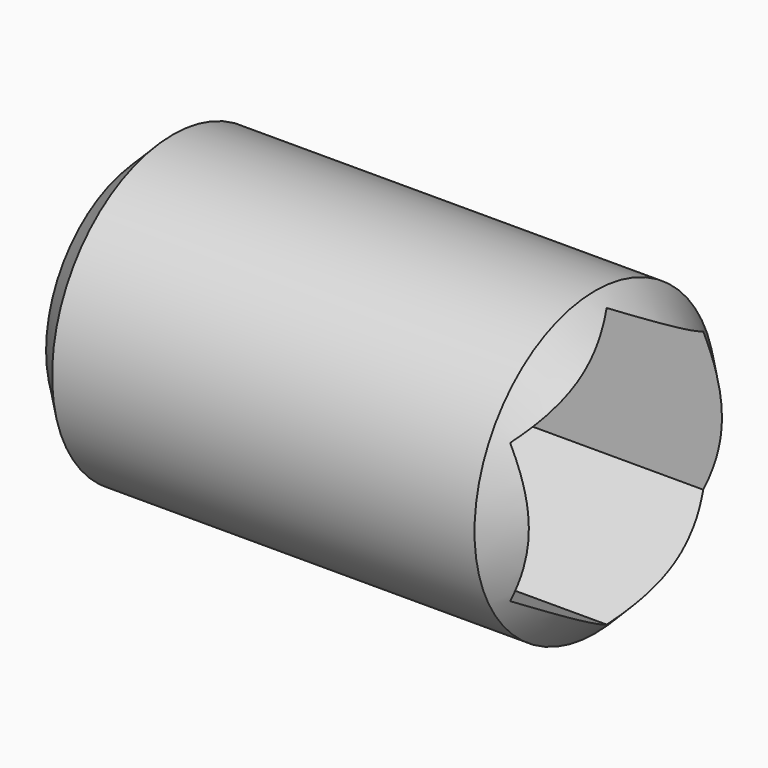
from build123d import *

# Parameters (mm, degrees)
CYLINDER001_R           = 1.25
CYLINDER001_DEPTH       = 4
CYLINDER001_PITCH_ANGLE = 90
CHAMFER_SIZE            = 0.25
POCKET_DEPTH            = 2


with BuildPart() as part:
    # Cylinder001 → Cylinder001 (new body)
    with BuildSketch(Plane.XY):
        Circle(CYLINDER001_R)
    extrude(amount=CYLINDER001_DEPTH)


with BuildPart() as part_1:
    # Cylinder001 pitch: moved
    add(part.part.rotate(Axis((0, 0, 0), (0, 1, 0)), CYLINDER001_PITCH_ANGLE))


with BuildPart() as part_2:
    # Cylinder001 placement: moved
    add(part_1.part.moved(Location((3, 0, 2.6))))

    # Chamfer
    chamfer_edges = [part_2.edges().sort_by_distance(p)[0] for p in [
        (7, 0, 3.85),
        (3, 0, 3.85),
    ]]
    chamfer(chamfer_edges, length=CHAMFER_SIZE)

    # Sketch001 → Pocket (cut)
    with BuildSketch(Plane.YZ.offset(7)):
        Polygon((-1, 3.17735), (0, 3.754701), (1, 3.17735), (1, 2.02265), (0, 1.445299), (-1, 2.02265), align=None)
    extrude(amount=-POCKET_DEPTH, mode=Mode.SUBTRACT)


solid = part_2.part
